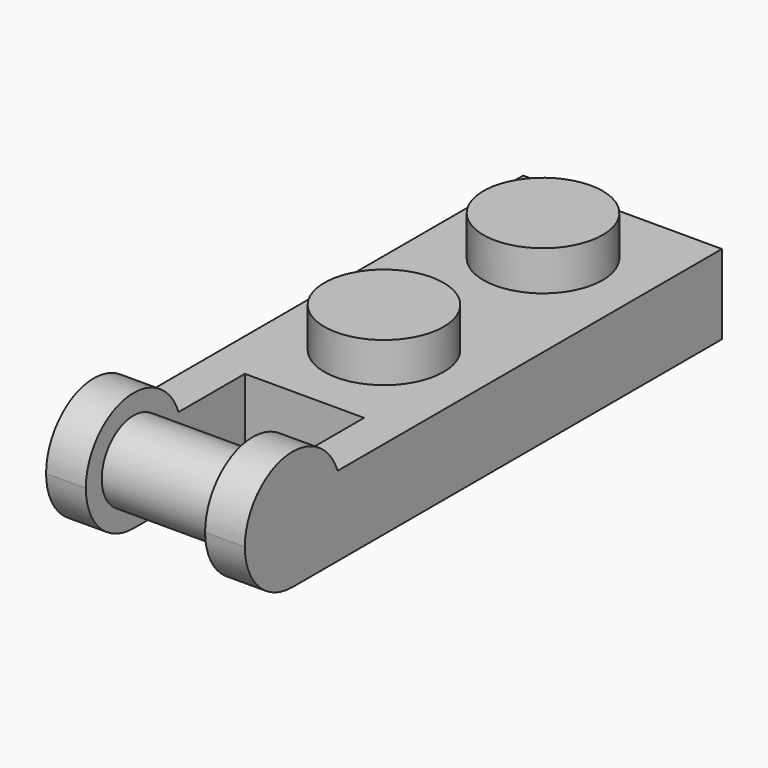
from build123d import *

# Parameters (mm, degrees)
F0_W     = 7.9375
F0_H     = 15.875
F0_R     = 2.38125
F1_DEPTH = 3.175
F2_DEPTH = 4.7625
F4_DEPTH = 1.5875
F6_R     = 1.5875
F7_DEPTH = 4.7625


with BuildPart() as f1:
    # F0 (on Top) → F1 (new body)
    with BuildSketch(Plane.XY):
        Rectangle(F0_W, F0_H)
        with Locations((0, -3.96875)):
            Circle(F0_R, mode=Mode.SUBTRACT)
        with Locations((0, 3.96875)):
            Circle(F0_R, mode=Mode.SUBTRACT)
    extrude(amount=F1_DEPTH)

    # F0 (on Top) → F2 (join)
    with BuildSketch(Plane.XY):
        with Locations((0, 3.96875)):
            Circle(F0_R)
        with Locations((0, -3.96875)):
            Circle(F0_R)
    extrude(amount=F2_DEPTH)

    # F3 (on face) → F4 (join)
    with BuildSketch(Plane(origin=(-3.96875, 0, 0), x_dir=(0, -1, 0), z_dir=(-1, 0, 0))):
        Polygon((7.9375, 3.175), (7.9375, 0), (11.1125, 0), (11.1125, 2.38125), (11.1125, 3.175), align=None)
        with BuildLine():
            Line((11.1125, 2.38125), (11.1125, 0))
            Line((11.1125, 0), (13.49375, 0))
            ThreePointArc((13.49375, 0), (11.809952, 0.697452), (11.1125, 2.38125))
        make_face()
        with BuildLine():
            Line((11.1125, 3.175), (11.1125, 2.38125))
            ThreePointArc((11.1125, 2.38125), (11.146793, 2.783924), (11.248686, 3.175))
            Line((11.248686, 3.175), (11.1125, 3.175))
        make_face()
        with BuildLine():
            ThreePointArc((11.248686, 3.175), (11.146793, 2.783924), (11.1125, 2.38125))
            ThreePointArc((11.1125, 2.38125), (11.809952, 0.697452), (13.49375, 0))
            ThreePointArc((13.49375, 0), (15.177548, 0.697452), (15.875, 2.38125))
            ThreePointArc((15.875, 2.38125), (13.896424, 4.728207), (11.248686, 3.175))
        make_face()
    extrude(amount=-F4_DEPTH)

    # F5: F1 across plane


with BuildPart() as f1_1:
    add(f1.part)
    add(f1.part.mirror(Plane.YZ))

    # F6 (on face) → F7 (join)
    with BuildSketch(Plane.YZ.offset(-2.38125)):
        with Locations((-13.49375, 2.38125)):
            Circle(F6_R)
    extrude(amount=F7_DEPTH)


solid = f1_1.part
